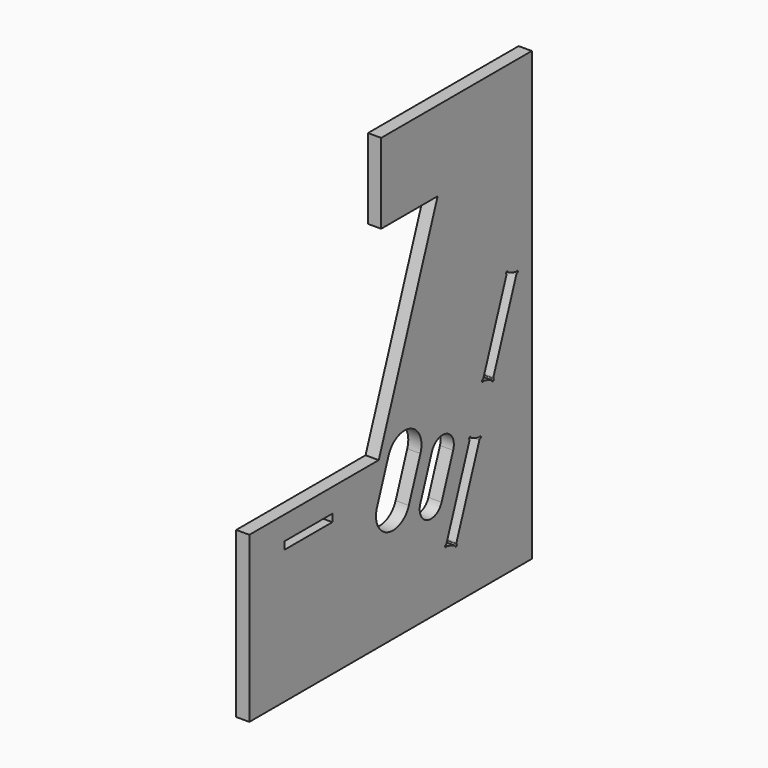
from build123d import *

# Parameters (mm, degrees)
PAD001_DEPTH    = 2.8
POCKET005_DEPTH = 2.801
SKETCH021_W     = 12.7
SKETCH021_H     = 1.6
POCKET010_DEPTH = 2.801


with BuildPart() as part:
    # Sketch001 (on Face18 of ShapeBinder) → Pad001 (new body)
    with BuildSketch(Plane.YZ.offset(35)):
        Polygon((-22.588718, 60.327675), (17.411282, 60.327675), (17.411282, -34.672325), (-57.588718, -34.672325), (-57.588718, 0.327675), (-23.239438, 0.327675), (-7.588718, 43.327675), (-22.588718, 43.327675), align=None)
        with BuildLine():
            ThreePointArc((-12.161797, -2.94822), (-14.851323, 2.819487), (-20.61903, 0.129961))
            Line((-20.61903, 0.129961), (-23.697212, -8.327272))
            ThreePointArc((-23.697212, -8.327272), (-21.007685, -14.09498), (-15.239978, -11.405454))
            Line((-15.239978, -11.405454), (-12.161797, -2.94822))
        make_face(mode=Mode.SUBTRACT)
        with BuildLine():
            ThreePointArc((-3.468033, -5.876244), (-5.261051, -2.031105), (-9.106189, -3.824123))
            Line((-9.106189, -3.824123), (-12.18437, -12.281356))
            ThreePointArc((-12.18437, -12.281356), (-10.391353, -16.126495), (-6.546214, -14.333477))
            Line((-6.546214, -14.333477), (-3.468033, -5.876244))
        make_face(mode=Mode.SUBTRACT)
        Polygon((10.819102, 21.538585), (13.450241, 20.580929), (7.057884, 3.018073), (4.426745, 3.97573), align=None, mode=Mode.SUBTRACT)
        Polygon((1.006544, -5.421196), (3.637683, -6.378853), (-2.754673, -23.941708), (-5.385813, -22.984051), align=None, mode=Mode.SUBTRACT)
    extrude(amount=PAD001_DEPTH)

    # Sketch013 (on Face26 of Pad001) → Pocket005 (cut, through all)
    with BuildSketch(Plane.YZ.offset(37.8)):
        with BuildLine():
            ThreePointArc((1.252746, -5.377784), (0.900889, -5.194619), (0.815033, -5.581893))
            ThreePointArc((0.858445, -5.828095), (0.869723, -5.699178), (0.815033, -5.581893))
            Line((0.858445, -5.828095), (1.413442, -5.569295))
            ThreePointArc((1.252746, -5.377784), (1.307436, -5.495069), (1.413442, -5.569295))
        make_face()
        with BuildLine():
            ThreePointArc((3.681095, -6.625055), (3.86426, -6.273198), (3.476986, -6.187342))
            ThreePointArc((3.230784, -6.230754), (3.359701, -6.242032), (3.476986, -6.187342))
            Line((3.489584, -6.785752), (3.230784, -6.230754))
            ThreePointArc((3.681095, -6.625055), (3.56381, -6.679746), (3.489584, -6.785752))
        make_face()
        with BuildLine():
            ThreePointArc((-5.429225, -22.737849), (-5.61239, -23.089706), (-5.225116, -23.175563))
            ThreePointArc((-4.978914, -23.13215), (-5.107831, -23.120872), (-5.225116, -23.175563))
            Line((-5.237714, -22.577153), (-4.978914, -23.13215))
            ThreePointArc((-5.429225, -22.737849), (-5.31194, -22.683159), (-5.237714, -22.577153))
        make_face()
        with BuildLine():
            ThreePointArc((-3.000875, -23.98512), (-2.649019, -24.168285), (-2.563162, -23.781011))
            ThreePointArc((-2.606574, -23.534809), (-2.617853, -23.663726), (-2.563162, -23.781011))
            Line((-2.606574, -23.534809), (-3.161572, -23.793609))
            ThreePointArc((-3.000875, -23.98512), (-3.055566, -23.867835), (-3.161572, -23.793609))
        make_face()
        with BuildLine():
            ThreePointArc((11.065304, 21.581997), (10.713447, 21.765162), (10.62759, 21.377888))
            ThreePointArc((10.671003, 21.131686), (10.682281, 21.260603), (10.62759, 21.377888))
            Line((10.671003, 21.131686), (11.226, 21.390486))
            ThreePointArc((11.065304, 21.581997), (11.119994, 21.464712), (11.226, 21.390486))
        make_face()
        with BuildLine():
            ThreePointArc((13.493653, 20.334727), (13.676818, 20.686583), (13.289544, 20.77244))
            ThreePointArc((13.043342, 20.729028), (13.172259, 20.717749), (13.289544, 20.77244))
            Line((13.302142, 20.17403), (13.043342, 20.729028))
            ThreePointArc((13.493653, 20.334727), (13.376368, 20.280036), (13.302142, 20.17403))
        make_face()
        with BuildLine():
            ThreePointArc((4.383333, 4.221932), (4.200168, 3.870075), (4.587442, 3.784219))
            ThreePointArc((4.833644, 3.827631), (4.704727, 3.83891), (4.587442, 3.784219))
            Line((4.574844, 4.382629), (4.833644, 3.827631))
            ThreePointArc((4.383333, 4.221932), (4.500618, 4.276623), (4.574844, 4.382629))
        make_face()
        with BuildLine():
            ThreePointArc((6.811682, 2.974661), (7.163539, 2.791497), (7.249396, 3.17877))
            ThreePointArc((7.205983, 3.424972), (7.194705, 3.296055), (7.249396, 3.17877))
            Line((7.205983, 3.424972), (6.650986, 3.166173))
            ThreePointArc((6.811682, 2.974661), (6.756992, 3.091946), (6.650986, 3.166173))
        make_face()
    extrude(amount=-POCKET005_DEPTH, mode=Mode.SUBTRACT)

    # Sketch021 (on Face5 of Pocket005) → Pocket010 (cut, through all)
    with BuildSketch(Plane.YZ.offset(37.8)):
        with Locations((-41.903927, -5.472325)):
            Rectangle(SKETCH021_W, SKETCH021_H)
    extrude(amount=-POCKET010_DEPTH, mode=Mode.SUBTRACT)


solid = part.part
